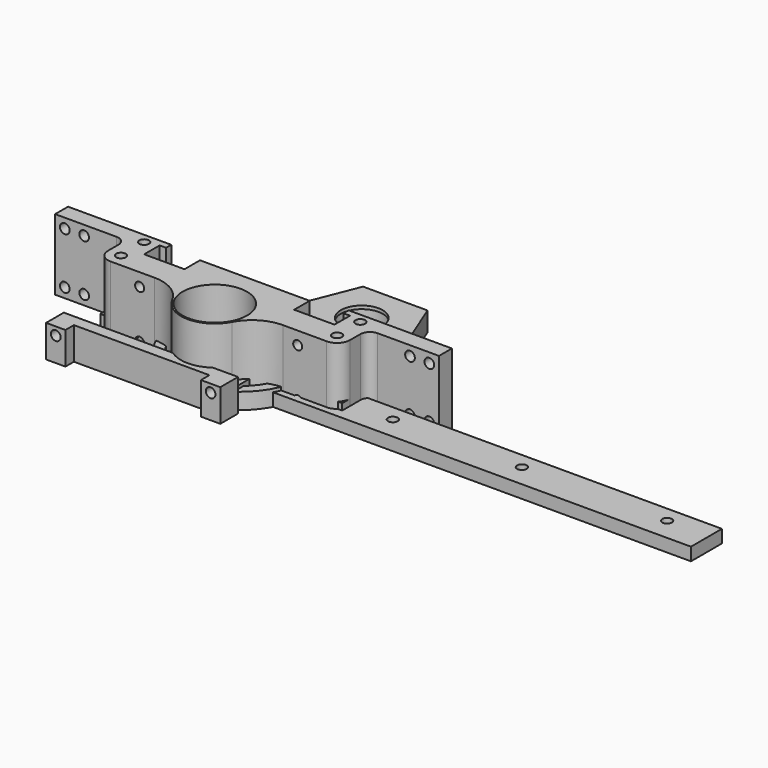
from build123d import *

# Parameters (mm, degrees)
SKETCH_R             = 21
SKETCH_R_2           = 1.5
PAD_DEPTH            = 5
SKETCH001_R          = 18
POCKET_DEPTH         = 5
SKETCH002_W          = 54
SKETCH002_H          = 6.88
PAD001_DEPTH         = 10
SKETCH003_W          = 42
SKETCH003_H          = 3.281028
POCKET001_DEPTH      = 10
SKETCH004_R          = 1.5
POCKET002_DEPTH      = 45.881
SKETCH006_R          = 18
POCKET003_DEPTH      = 5
SKETCH005_W          = 148
SKETCH005_H          = 12
SKETCH005_R          = 1.5
PAD002_DEPTH         = 4
SKETCH015_R          = 6.5
SKETCH015_R_2        = 2
PAD004_DEPTH         = 6
SKETCH016_W          = 38
SKETCH016_H          = 13
POCKET012_DEPTH      = 6.001
SKETCH017_R          = 7.56
POCKET013_DEPTH      = 5
SKETCH018_W          = 8
SKETCH018_H          = 15
SKETCH018_R          = 2
PAD005_DEPTH         = 9
FILLET001_R          = 1
SKETCH007_R          = 1.5
PAD003_DEPTH         = 22
SKETCH008_R          = 7.56
POCKET004_DEPTH      = 4.5
SKETCH009_R          = 6.5
POCKET005_DEPTH      = 22.001
SKETCH013_R          = 10
POCKET009_DEPTH      = 12.001
SKETCH011_R          = 1.4
POCKET010_DEPTH      = 20
SKETCH022_R          = 1.5
POCKET016_DEPTH      = 8.001
POCKET016_DEPTH_BACK = 20.001
SKETCH020_R          = 7.56
POCKET015_DEPTH      = 22.001
SKETCH021_R          = 7.56
SKETCH021_R_2        = 6.5
PAD006_DEPTH         = 1


with BuildPart() as obj1:
    # Sketch → Pad (new body)
    with BuildSketch(Plane.XY):
        Circle(SKETCH_R)
        with Locations((12.5, 0)):
            Circle(SKETCH_R_2, mode=Mode.SUBTRACT)
        with Locations((-12.5, 0)):
            Circle(SKETCH_R_2, mode=Mode.SUBTRACT)
        with BuildLine():
            ThreePointArc((-12.196311, -4.5), (0, -13), (12.196311, -4.5))
            Line((5.361903, -4.5), (12.196311, -4.5))
            ThreePointArc((5.361903, -4.5), (7, 0), (5.361903, 4.5))
            Line((5.361903, 4.5), (12.196311, 4.5))
            ThreePointArc((12.196311, 4.5), (0, 13), (-12.196311, 4.5))
            Line((-12.196311, 4.5), (-5.361903, 4.5))
            ThreePointArc((-5.361903, 4.5), (-7, 0), (-5.361903, -4.5))
            Line((-5.361903, -4.5), (-12.196311, -4.5))
        make_face(mode=Mode.SUBTRACT)
    extrude(amount=PAD_DEPTH)

    # Sketch001 → Pocket (cut)
    with BuildSketch(Plane.XY.offset(2)):
        Circle(SKETCH001_R)
    extrude(amount=POCKET_DEPTH, mode=Mode.SUBTRACT)

    # Sketch002 → Pad001 (join)
    with BuildSketch(Plane.XY):
        with Locations((-13, -21.44)):
            Rectangle(SKETCH002_W, SKETCH002_H)
    extrude(amount=PAD001_DEPTH)

    # Sketch003 (on Face19 of Pad001) → Pocket001 (cut)
    with BuildSketch(Plane.XY.offset(10)):
        with Locations((-13, -23.239486)):
            Rectangle(SKETCH003_W, SKETCH003_H)
    extrude(amount=-POCKET001_DEPTH, mode=Mode.SUBTRACT)

    # Sketch004 (on Face28 of Pocket001) → Pocket002 (cut, through all)
    with BuildSketch(Plane.XZ.offset(24.88)):
        with Locations((-37, 7.5)):
            Circle(SKETCH004_R)
        with Locations((11, 7.5)):
            Circle(SKETCH004_R)
    extrude(amount=-POCKET002_DEPTH, mode=Mode.SUBTRACT)

    # Sketch006 → Pocket003 (cut)
    with BuildSketch(Plane.XY):
        Circle(SKETCH006_R)
    extrude(amount=POCKET003_DEPTH, mode=Mode.SUBTRACT)


with BuildPart() as obj2:
    # Sketch005 → Pad002 (new body)
    with BuildSketch(Plane.XY):
        with Locations((74, -4)):
            Rectangle(SKETCH005_W, SKETCH005_H)
        with Locations((3, -3)):
            Circle(SKETCH005_R, mode=Mode.SUBTRACT)
        with Locations((35, -3)):
            Circle(SKETCH005_R, mode=Mode.SUBTRACT)
        with Locations((50, -3)):
            Circle(SKETCH005_R, mode=Mode.SUBTRACT)
        with Locations((90, -3)):
            Circle(SKETCH005_R, mode=Mode.SUBTRACT)
        with Locations((18, -3)):
            Circle(SKETCH005_R, mode=Mode.SUBTRACT)
        with Locations((135, -3)):
            Circle(SKETCH005_R, mode=Mode.SUBTRACT)
    extrude(amount=PAD002_DEPTH)


with BuildPart() as body003:
    # Sketch015 → Pad004 (new body)
    with BuildSketch(Plane.XY):
        Polygon((37.5, 8), (37.5, -20), (-37.5, -20), (-37.5, 8), (-11, 8), (3.25, 43.88), (23.25, 43.88), align=None)
        with Locations((0, -9.5)):
            Circle(SKETCH015_R, mode=Mode.SUBTRACT)
        with Locations((-33.5, 5)):
            Circle(SKETCH015_R_2, mode=Mode.SUBTRACT)
        with Locations((-33.5, -4)):
            Circle(SKETCH015_R_2, mode=Mode.SUBTRACT)
        with Locations((33.5, 5)):
            Circle(SKETCH015_R_2, mode=Mode.SUBTRACT)
        with Locations((33.5, -4)):
            Circle(SKETCH015_R_2, mode=Mode.SUBTRACT)
        with Locations((13.25, 30.88)):
            Circle(SKETCH015_R, mode=Mode.SUBTRACT)
        with BuildLine():
            ThreePointArc((19.75, 15), (13.25, 21.5), (6.75, 15))
            Line((6.75, 15), (6.75, 5))
            ThreePointArc((6.75, 5), (13.25, -1.5), (19.75, 5))
            Line((19.75, 5), (19.75, 15))
        make_face(mode=Mode.SUBTRACT)
        with BuildLine():
            ThreePointArc((-26.783098, 4.181481), (-30.351655, 0.612924), (-26.783098, -2.955633))
            Line((-26.783098, -2.955633), (-9.082204, -2.955633))
            ThreePointArc((-9.082204, -2.955633), (-5.513647, 0.612924), (-9.082204, 4.181481))
            Line((-9.082204, 4.181481), (-26.783098, 4.181481))
        make_face(mode=Mode.SUBTRACT)
    extrude(amount=PAD004_DEPTH)

    # Sketch016 → Pocket012 (cut, through all)
    with BuildSketch(Plane.XY):
        with Locations((-31, -13.5)):
            Rectangle(SKETCH016_W, SKETCH016_H)
        with Locations((31, -13.5)):
            Rectangle(SKETCH016_W, SKETCH016_H)
    extrude(amount=POCKET012_DEPTH, mode=Mode.SUBTRACT)

    # Sketch017 → Pocket013 (cut)
    with BuildSketch(Plane.XY):
        with Locations((13.25, 30.88)):
            Circle(SKETCH017_R)
        with Locations((0, -9.5)):
            Circle(SKETCH017_R)
    extrude(amount=POCKET013_DEPTH, mode=Mode.SUBTRACT)


with BuildPart() as body004connector:
    # Sketch018 → Pad005 (new body)
    with BuildSketch(Plane.XY):
        with Locations((0, 0.5)):
            Rectangle(SKETCH018_W, SKETCH018_H)
        with Locations((0, 5)):
            Circle(SKETCH018_R, mode=Mode.SUBTRACT)
        with Locations((0, -4)):
            Circle(SKETCH018_R, mode=Mode.SUBTRACT)
    extrude(amount=PAD005_DEPTH)

    # Fillet001
    fillet001_edges = [body004connector.edges().sort_by_distance(p)[0] for p in [
        (4, 8, 4.5),
        (4, -7, 4.5),
        (-4, 8, 4.5),
        (-4, -7, 4.5),
    ]]
    fillet(fillet001_edges, radius=FILLET001_R)


with BuildPart() as body006bottomsupportleft:
    # Sketch007 → Pad003 (new body)
    with BuildSketch(Plane.XY):
        with BuildLine():
            Line((29.5, 0), (29.5, 6))
            Line((29.5, 6), (27.5, 6))
            Line((27.5, 6), (27.5, 8))
            Line((27.5, 8), (37.5, 8))
            Line((37.5, 8), (59.5, 8))
            Line((59.5, 8), (59.5, 3))
            Line((59.5, 3), (40.5, 3))
            ThreePointArc((40.5, 3), (38.37868, 2.12132), (37.5, 0))
            Line((37.5, 0), (37.5, -4))
            ThreePointArc((33.5, -8), (36.328427, -6.828427), (37.5, -4))
            Line((33.5, -8), (19.899749, -8))
            ThreePointArc((19.899749, -8), (13.702975, -9.723814), (9.286549, -14.4))
            ThreePointArc((-9.286551, -14.399997), (-2e-06, -20), (9.286549, -14.4))
            ThreePointArc((-9.286551, -14.399997), (-13.702977, -9.723813), (-19.899749, -8))
            Line((-33.5, -8), (-19.899749, -8))
            ThreePointArc((-37.5, -4), (-36.328427, -6.828427), (-33.5, -8))
            Line((-37.5, 0), (-37.5, -4))
            ThreePointArc((-37.5, 0), (-38.37868, 2.12132), (-40.5, 3))
            Line((-59.5, 3), (-40.5, 3))
            Line((-59.5, 8), (-59.5, 3))
            Line((-37.5, 8), (-59.5, 8))
            Line((-27.5, 8), (-37.5, 8))
            Line((-27.5, 6), (-27.5, 8))
            Line((-29.5, 6), (-27.5, 6))
            Line((-29.5, 0), (-29.5, 6))
            Line((-29.5, 0), (-17, 0))
            Line((-17, 0), (-17, 6))
            Line((17, 6), (-17, 6))
            Line((17, 0), (17, 6))
            Line((29.5, 0), (17, 0))
        make_face()
        with Locations((-33.5, 5)):
            Circle(SKETCH007_R, mode=Mode.SUBTRACT)
        with Locations((-33.5, -4)):
            Circle(SKETCH007_R, mode=Mode.SUBTRACT)
        with Locations((33.5, -4)):
            Circle(SKETCH007_R, mode=Mode.SUBTRACT)
        with Locations((33.5, 5)):
            Circle(SKETCH007_R, mode=Mode.SUBTRACT)
    extrude(amount=PAD003_DEPTH)

    # Sketch008 → Pocket004 (cut)
    with BuildSketch(Plane.XY):
        with Locations((0, -9.5)):
            Circle(SKETCH008_R)
    extrude(amount=POCKET004_DEPTH, mode=Mode.SUBTRACT)

    # Sketch009 → Pocket005 (cut, through all)
    with BuildSketch(Plane.XY):
        with Locations((0, -9.5)):
            Circle(SKETCH009_R)
    extrude(amount=POCKET005_DEPTH, mode=Mode.SUBTRACT)

    # Sketch013 → Pocket009 (cut, through all)
    with BuildSketch(Plane.XY.offset(10)):
        with Locations((0, -9.5)):
            Circle(SKETCH013_R)
    extrude(amount=POCKET009_DEPTH, mode=Mode.SUBTRACT)

    # Sketch011 → Pocket010 (cut)
    with BuildSketch(Plane.XZ):
        with Locations((-24.5, 18)):
            Circle(SKETCH011_R)
        with Locations((24.5, 18)):
            Circle(SKETCH011_R)
        with Locations((-24.5, 3)):
            Circle(SKETCH011_R)
        with Locations((24.5, 3)):
            Circle(SKETCH011_R)
    extrude(amount=POCKET010_DEPTH, mode=Mode.SUBTRACT)

    # Sketch022 → Pocket016 (cut, two sides)
    with BuildSketch(Plane.XZ) as pocket016_sk:
        with Locations((-56.5, 19)):
            Circle(SKETCH022_R)
        with Locations((-50.5, 19)):
            Circle(SKETCH022_R)
        with Locations((-56.5, 3)):
            Circle(SKETCH022_R)
        with Locations((-50.5, 3)):
            Circle(SKETCH022_R)
        with Locations((50.5, 19)):
            Circle(SKETCH022_R)
        with Locations((56.5, 19)):
            Circle(SKETCH022_R)
        with Locations((50.5, 3)):
            Circle(SKETCH022_R)
        with Locations((56.5, 3)):
            Circle(SKETCH022_R)
    extrude(amount=-POCKET016_DEPTH, mode=Mode.SUBTRACT)
    extrude(pocket016_sk.sketch, amount=POCKET016_DEPTH_BACK, mode=Mode.SUBTRACT)

    # Sketch020 → Pocket015 (cut, through all)
    with BuildSketch(Plane.XY):
        with Locations((0, -9.5)):
            Circle(SKETCH020_R)
    extrude(amount=POCKET015_DEPTH, mode=Mode.SUBTRACT)

    # Sketch021 → Pad006 (join)
    with BuildSketch(Plane.XY):
        with Locations((0, -9.5)):
            Circle(SKETCH021_R)
        with Locations((0, -9.5)):
            Circle(SKETCH021_R_2, mode=Mode.SUBTRACT)
    extrude(amount=PAD006_DEPTH)


solid = Compound([obj1.part, obj2.part, body003.part, body004connector.part, body006bottomsupportleft.part])
